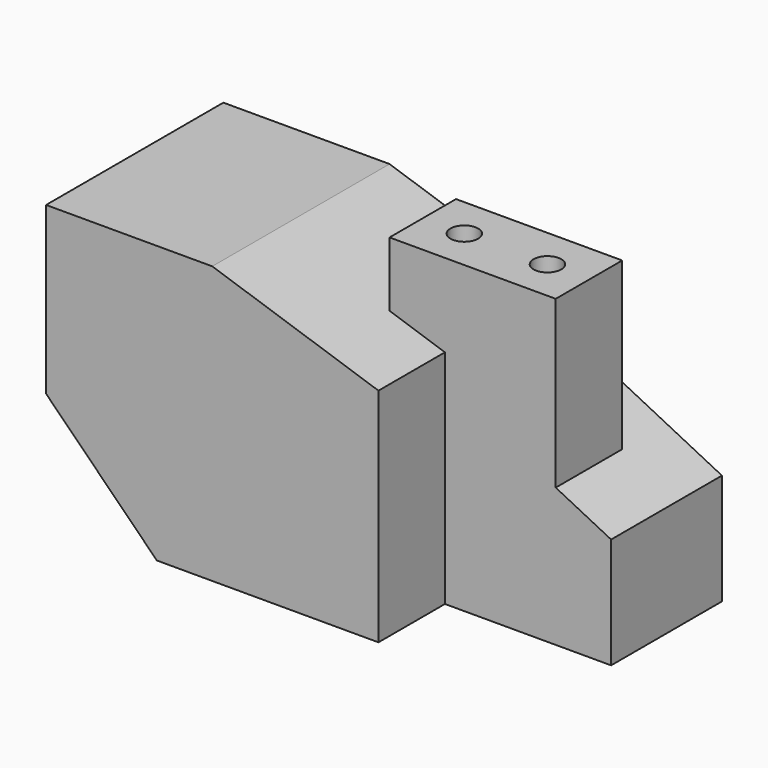
from build123d import *

# Parameters (mm, degrees)
F1_DEPTH      = 25.4
F2_W          = 19.05
F2_H          = 19.05
F2_H_2        = 50.8
F3_DEPTH      = 12.7
F3_DEPTH_BACK = 25.4
F5_DEPTH      = 31.75
F6_R          = 3.175
F7_DEPTH      = 69.85


with BuildPart() as f1:
    # F0 (on Front) → F1 (new body, symmetric)
    with BuildSketch(Plane.XZ):
        Polygon((38.1, 63.5), (0, 63.5), (0, 25.4), (25.4, 0), (76.2, 0), (76.2, 50.8), align=None)
    extrude(amount=F1_DEPTH, both=True)

    # F2 (on face) → F3 (join, two sides)
    with BuildSketch(Plane.YZ.offset(76.2)) as f3_sk:
        with Locations((3.175, 60.325)):
            Rectangle(F2_W, F2_H)
        with Locations((3.175, 25.4)):
            Rectangle(F2_W, F2_H_2)
    extrude(amount=-F3_DEPTH)
    extrude(f3_sk.sketch, amount=F3_DEPTH_BACK)

    # F4 (on face) → F5 (join, through all)
    with BuildSketch(Plane.XZ.offset(6.35)):
        Polygon((101.6, 0), (101.6, 31.75), (76.2, 44.45), (76.2, 0), align=None)
        Polygon((114.3, 0), (114.3, 25.4), (101.6, 31.75), (101.6, 0), align=None)
    extrude(amount=-F5_DEPTH)

    # F6 (on face) → F7 (cut, through all)
    with BuildSketch(Plane.XY.offset(69.85)):
        with Locations((92.075, 3.175)):
            Circle(F6_R)
        with Locations((73.025, 3.175)):
            Circle(F6_R)
    extrude(amount=-F7_DEPTH, mode=Mode.SUBTRACT)


solid = f1.part
